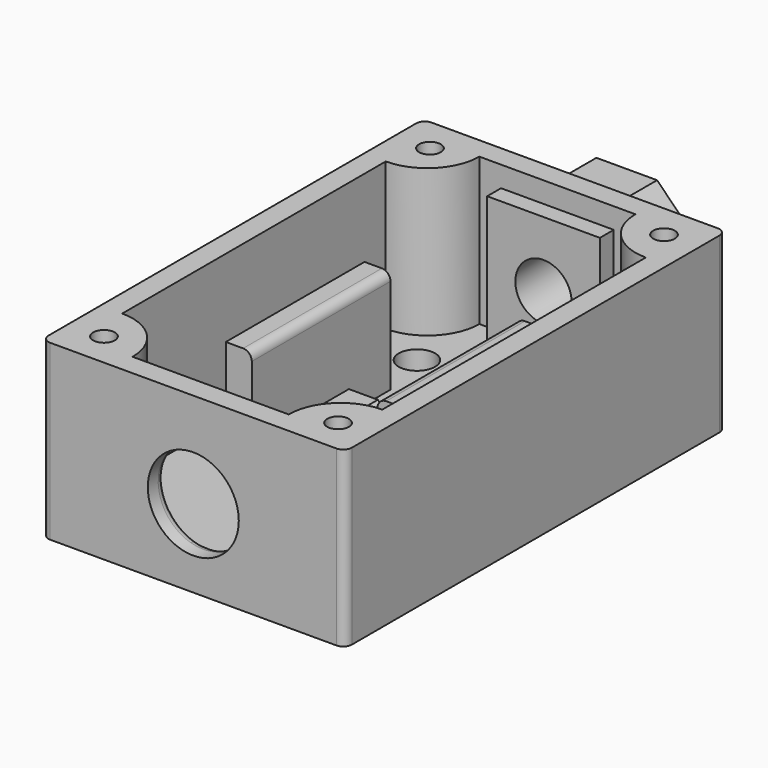
from build123d import *

# Parameters (mm, degrees)
F0_W           = 35
F0_H           = 55
F0_R           = 1.25
F1_DEPTH       = 20
F2_DEPTH       = 3
F3_R           = 1
F4_W           = 3
F4_H           = 20
F5_DEPTH       = 15
F7_DEPTH       = 5.5
F8_R           = 2.1
F9_DEPTH       = 25
F9_DEPTH_BACK  = 25
F10_R          = 5.25
F11_DEPTH      = 25
F11_DEPTH_BACK = 30
F13_START      = -23
F12_W          = 13
F12_H          = 17.6061931998
F12_R          = 3.25
F13_DEPTH      = 12
F14_DEPTH      = 25
F14_DEPTH_BACK = 25
F15_SIZE       = 3
F16_R          = 1


with BuildPart() as f1:
    # F0 (on Top) → F1 (new body)
    with BuildSketch(Plane.XY):
        Rectangle(F0_W, F0_H)
        with Locations((-13.5, -23.5)):
            Circle(F0_R, mode=Mode.SUBTRACT)
        with Locations((13.5, -23.5)):
            Circle(F0_R, mode=Mode.SUBTRACT)
        with Locations((-13.5, 23.5)):
            Circle(F0_R, mode=Mode.SUBTRACT)
        with BuildLine():
            ThreePointArc((15, -19), (10.7573593129, -20.7573593129), (9, -25))
            Line((9, -25), (-9, -25))
            ThreePointArc((-9, -25), (-10.7573593129, -20.7573593129), (-15, -19))
            Line((-15, -19), (-15, 19))
            ThreePointArc((-15, 19), (-10.7573593129, 20.7573593129), (-9, 25))
            Line((-9, 25), (9, 25))
            ThreePointArc((9, 25), (10.7573593129, 20.7573593129), (15, 19))
            Line((15, 19), (15, -19))
        make_face(mode=Mode.SUBTRACT)
        with Locations((13.5, 23.5)):
            Circle(F0_R, mode=Mode.SUBTRACT)
    extrude(amount=F1_DEPTH)

    # F0 (on Top) → F2 (join)
    with BuildSketch(Plane.XY):
        with BuildLine():
            Line((-9, -25), (9, -25))
            ThreePointArc((9, -25), (10.7573593129, -20.7573593129), (15, -19))
            Line((15, -19), (15, 19))
            ThreePointArc((15, 19), (10.7573593129, 20.7573593129), (9, 25))
            Line((9, 25), (-9, 25))
            ThreePointArc((-9, 25), (-10.7573593129, 20.7573593129), (-15, 19))
            Line((-15, 19), (-15, -19))
            ThreePointArc((-15, -19), (-10.7573593129, -20.7573593129), (-9, -25))
        make_face()
    extrude(amount=F2_DEPTH)

    # F3
    f3_edges = [f1.edges().sort_by_distance(p)[0] for p in [
        (17.5, 27.5, 10),
        (-17.5, 27.5, 10),
        (17.5, -27.5, 10),
        (-17.5, -27.5, 10),
    ]]
    fillet(f3_edges, radius=F3_R)

    # F4 (on Top) → F5 (join)
    with BuildSketch(Plane.XY):
        with Locations((-8.75, 0)):
            Rectangle(F4_W, F4_H)
        with Locations((8.75, 0)):
            Rectangle(F4_W, F4_H)
    extrude(amount=F5_DEPTH)

    # F6 (on Top) → F7 (join)
    with BuildSketch(Plane.XY):
        Polygon((-9, 0), (0, 0), (9, 0), (9, 4), (-9, 4), align=None)
    extrude(amount=F7_DEPTH)

    # F8 (on Top) → F9 (cut, two sides)
    with BuildSketch(Plane.XY) as f9_sk:
        with Locations((-9, 16)):
            Circle(F8_R)
        with Locations((9, 16)):
            Circle(F8_R)
    extrude(amount=-F9_DEPTH, mode=Mode.SUBTRACT)
    extrude(f9_sk.sketch, amount=F9_DEPTH_BACK, mode=Mode.SUBTRACT)

    # F10 (on Front) → F11 (cut, two sides)
    with BuildSketch(Plane.XZ) as f11_sk:
        with Locations((0, 9)):
            Circle(F10_R)
    extrude(amount=-F11_DEPTH, mode=Mode.SUBTRACT)
    extrude(f11_sk.sketch, amount=F11_DEPTH_BACK, mode=Mode.SUBTRACT)

    # F12 (on Front) → F13 (join)
    with BuildSketch(Plane.XZ.offset(F13_START)):
        with Locations((0, 8.8030965999)):
            Rectangle(F12_W, F12_H)
        with Locations((0, 10)):
            Circle(F12_R, mode=Mode.SUBTRACT)
    extrude(amount=-F13_DEPTH)

    # F14 (cut, two sides): a face of the model
    f14_faces = [f1.faces().sort_by_distance(p)[0] for p in [
        (0, 27.5, 10),
    ]]
    extrude(f14_faces, amount=-F14_DEPTH, mode=Mode.SUBTRACT)
    extrude(f14_faces, amount=F14_DEPTH_BACK, mode=Mode.SUBTRACT)

    # F15
    f15_edges = [f1.edges().sort_by_distance(p)[0] for p in [
        (6.5, 31.25, 17.606193),
        (-6.5, 31.25, 17.606193),
    ]]
    chamfer(f15_edges, length=F15_SIZE)

    # F16
    f16_edges = [f1.edges().sort_by_distance(p)[0] for p in [
        (-3.25, 35, 10),
        (-5.25, -25, 9),
        (-7.25, 0, 15),
        (7.25, 0, 15),
    ]]
    fillet(f16_edges, radius=F16_R)


solid = f1.part
